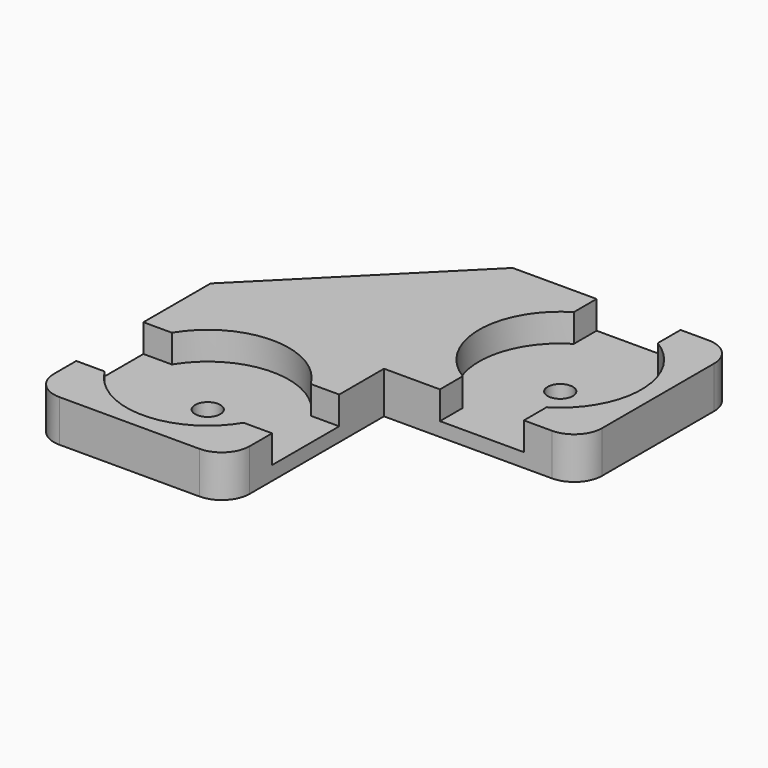
from build123d import *

# Parameters (mm, degrees)
SKETCH006_W                 = 14
SKETCH006_H                 = 14
PAD002_DEPTH                = 3
POCKET004_DEPTH             = 2
SKETCH008_R                 = 0.9
POCKET005_DEPTH             = 1.001
CLONE001007_PLACEMENT_ANGLE = 90
PAD_DEPTH                   = 3
SKETCH010_W                 = 12
SKETCH010_H                 = 12
POCKET_DEPTH                = 2
CLONE001006_PLACEMENT_ANGLE = 180
FILLET001_R                 = 2


with BuildPart() as obj1:
    # Sketch006 → Pad002 (new body)
    with BuildSketch(Plane.XY):
        Rectangle(SKETCH006_W, SKETCH006_H)
    extrude(amount=PAD002_DEPTH)

    # Sketch007 → Pocket004 (cut)
    with BuildSketch(Plane.XY.offset(3)):
        with BuildLine():
            Line((-3, 7), (-3, 4.963869))
            ThreePointArc((-3, 4.963869), (-5.8, 0), (-3, -4.963869))
            Line((-3, -7), (-3, -4.963869))
            Line((3, -7), (-3, -7))
            Line((3, -4.963869), (3, -7))
            ThreePointArc((3, -4.963869), (5.8, 0), (3, 4.963869))
            Line((3, 7), (3, 4.963869))
            Line((-3, 7), (3, 7))
        make_face()
    extrude(amount=-POCKET004_DEPTH, mode=Mode.SUBTRACT)

    # Sketch008 → Pocket005 (cut, through all)
    with BuildSketch(Plane.XY.offset(1)):
        Circle(SKETCH008_R)
    extrude(amount=-POCKET005_DEPTH, mode=Mode.SUBTRACT)


with BuildPart() as obj1_1:
    # Clone001005 placement: moved
    add(obj1.part.moved(Location((14, 0, 0))))


with BuildPart() as obj2:
    # Clone001007 base: copy of obj1
    add(obj1_1.part)


with BuildPart() as obj2_1:
    # Clone001007 placement: moved
    add(obj2.part.moved(Location((0, -28, 0))).rotate(Axis((0, -28, 0), (0, 0, 1)), CLONE001007_PLACEMENT_ANGLE))


with BuildPart() as obj3:
    # Sketch → Pad (new body)
    with BuildSketch(Plane.XY):
        Polygon((-7, -7), (-7, 7), (7, 7), (7, 5), (-5, -7), align=None)
    extrude(amount=PAD_DEPTH)

    # Sketch010 → Pocket (cut)
    with BuildSketch(Plane(origin=(0, 0, 0), x_dir=(1, 0, 0), z_dir=(0, 0, -1))):
        with Locations((1, 1)):
            Rectangle(SKETCH010_W, SKETCH010_H)
    extrude(amount=-POCKET_DEPTH, mode=Mode.SUBTRACT)


with BuildPart() as obj3_1:
    # Clone001006 placement: moved
    add(obj3.part.rotate(Axis((0, 0, 0), (0, 0, 1)), CLONE001006_PLACEMENT_ANGLE))


with BuildPart() as corner_holder_double_rounded:
    # Fusion001 base: copy of obj1
    add(obj1_1.part)

    # Fusion001: union obj2, obj3
    add(obj2_1.part)
    add(obj3_1.part)

    # Fillet001
    fillet001_edges = [corner_holder_double_rounded.edges().sort_by_distance(p)[0] for p in [
        (21, 7, 1.5),
        (21, -7, 1.5),
        (7, -21, 1.5),
        (-7, -21, 1.5),
    ]]
    fillet(fillet001_edges, radius=FILLET001_R)


solid = corner_holder_double_rounded.part
